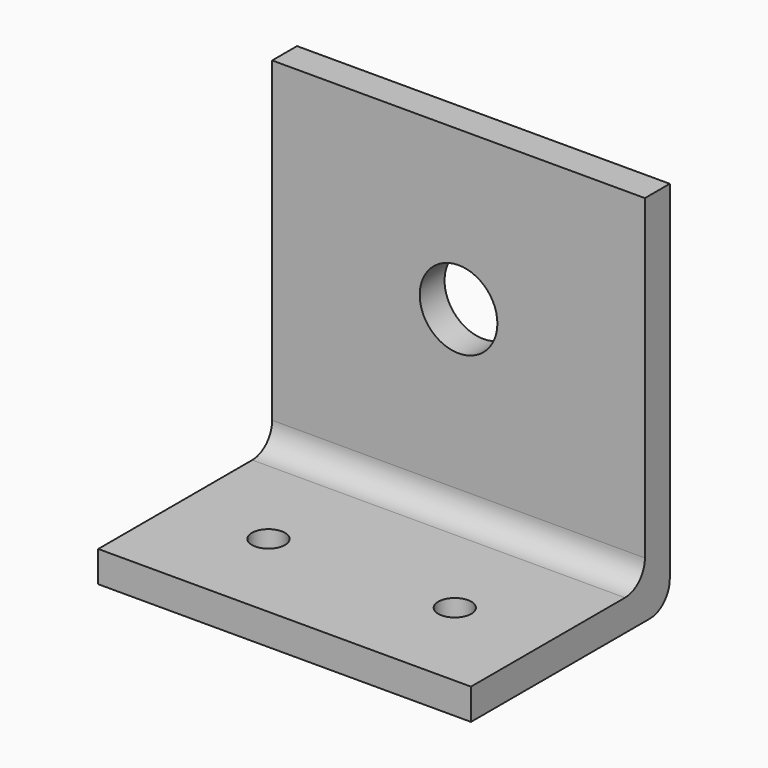
from build123d import *

# Parameters (mm, degrees)
F1_DEPTH = 38.1
F2_R     = 5.08
F3_R     = 3.3782
F4_DEPTH = 6.351
F5_R     = 7.9375
F6_DEPTH = 6.351


with BuildPart() as f1:
    # F0 (on Right) → F1 (new body, symmetric)
    with BuildSketch(Plane.YZ):
        Polygon((0, 6.35), (0, 0), (50.8, 0), (50.8, 76.2), (44.45, 76.2), (44.45, 50.8), (44.45, 6.35), (3.175, 6.35), align=None)
    extrude(amount=F1_DEPTH, both=True)

    # F2
    f2_edges = [f1.edges().sort_by_distance(p)[0] for p in [
        (0, 50.8, 0),
        (0, 44.45, 6.35),
    ]]
    fillet(f2_edges, radius=F2_R)

    # F3 (on face) → F4 (cut, through all)
    with BuildSketch(Plane.XY.offset(6.35)):
        with Locations((19.05, 19.685)):
            Circle(F3_R)
        with Locations((-19.05, 19.685)):
            Circle(F3_R)
    extrude(amount=-F4_DEPTH, mode=Mode.SUBTRACT)

    # F5 (on face) → F6 (cut, through all)
    with BuildSketch(Plane.XZ.offset(-44.45)):
        with Locations((0, 43.815)):
            Circle(F5_R)
    extrude(amount=-F6_DEPTH, mode=Mode.SUBTRACT)


solid = f1.part
